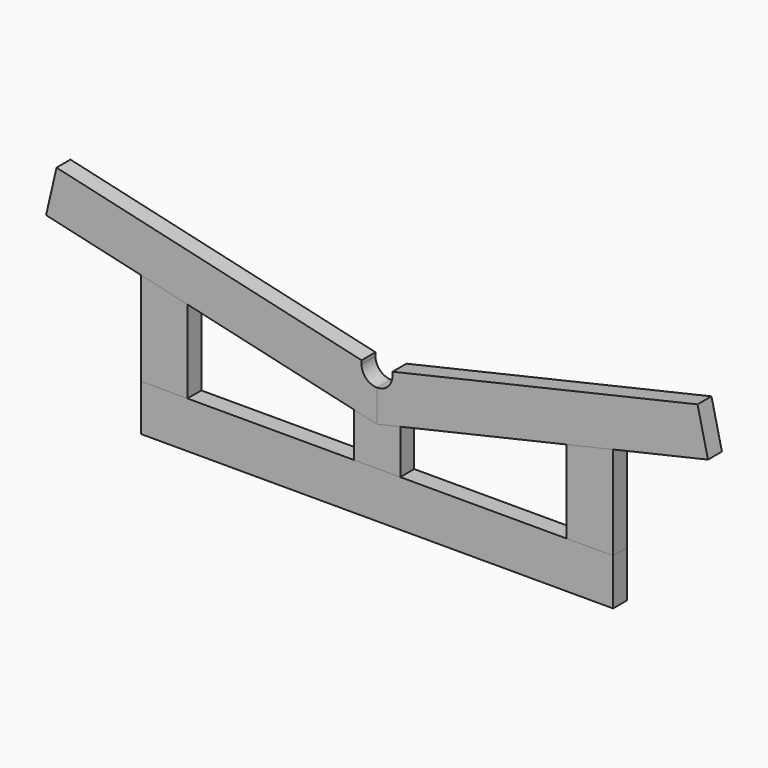
from build123d import *

# Parameters (mm, degrees)
F0_W     = 1220
F0_H     = 120
F1_DEPTH = 45
F3_DEPTH = 45
F5_DEPTH = 45
F9_DEPTH = 45


with BuildPart() as f1:
    # F0 (on Front) → F1 (new body)
    with BuildSketch(Plane.XZ):
        with Locations((610, 60)):
            Rectangle(F0_W, F0_H)
    extrude(amount=F1_DEPTH)


with BuildPart() as f3:
    # F2 (on Front) → F3 (new body)
    with BuildSketch(Plane.XZ):
        with BuildLine():
            Line((570, 344), (570, 353.234728))
            Line((570, 353.234728), (-218.214555, 535.208396))
            Line((-218.214555, 535.208396), (-245.208682, 418.283988))
            Line((-245.208682, 418.283988), (610, 220.843507))
            Line((610, 220.843507), (610, 304))
            ThreePointArc((610, 304), (581.715729, 315.715729), (570, 344))
        make_face()
    extrude(amount=F3_DEPTH)


with BuildPart() as f5:
    # F4 (on Front) → F5 (new body)
    with BuildSketch(Plane.XZ):
        Polygon((0, 361.673104), (0, 120), (120, 120), (120, 333.968921), align=None)
    extrude(amount=F5_DEPTH)


with BuildPart() as f7_1:
    # F7: instance of F1
    add(f1.part.mirror(Plane.YZ.offset(610)))


with BuildPart() as f7_2:
    # F7: instance of F3
    add(f3.part.mirror(Plane.YZ.offset(610)))


with BuildPart() as f7_3:
    # F7: instance of F5
    add(f5.part.mirror(Plane.YZ.offset(610)))


with BuildPart() as f9:
    # F8 (on Front) → F9 (new body)
    with BuildSketch(Plane.XZ):
        Polygon((550, 120), (670, 120), (670, 234.695599), (610, 220.843507), (550, 234.695599), align=None)
    extrude(amount=F9_DEPTH)


solid = Compound([f1.part, f3.part, f5.part, f7_2.part, f7_3.part, f9.part])
